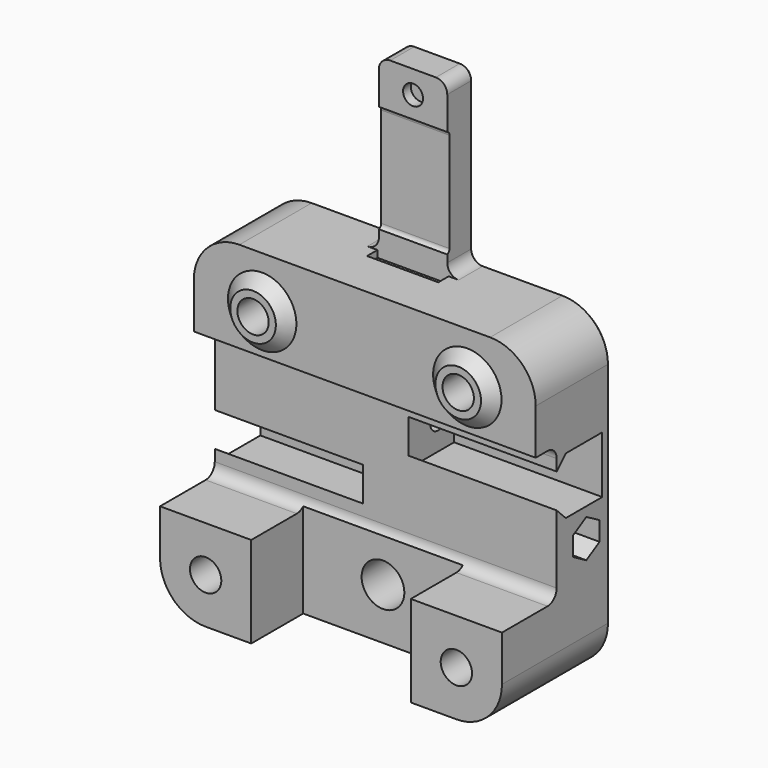
from build123d import *

# Parameters (mm, degrees)
PAD025_DEPTH          = 24
POCKET273_DEPTH       = 30.001
POCKET273_DEPTH_BACK  = 30.001
SKETCH402_W           = 28
SKETCH402_H           = 11.4
POCKET274_DEPTH       = 28.001
SKETCH404_W           = 60
SKETCH404_H           = 7.4
POCKET275_DEPTH       = 28.001
SKETCH405_R           = 2.75
POCKET276_DEPTH       = 20.701
SKETCH406_R           = 5
POCKET277_DEPTH       = 3.001
POCKET278_DEPTH       = 5.001
SKETCH408_R           = 3.75
POCKET279_DEPTH       = 18.701
POCKET280_DEPTH       = 197.021467
SKETCH410_R           = 1.75
POCKET281_DEPTH       = 201.021467
POCKET281_DEPTH_BACK  = 201.021467
POCKET282_DEPTH       = 195.021467
POLARPATTERN003_COUNT = 2
PAD026_DEPTH          = 6
POCKET283_DEPTH       = 6.25
SKETCH414_R           = 1.75
POCKET284_DEPTH       = 19.701
SKETCH415_R           = 3
POCKET285_DEPTH       = 4.001
CHAMFER024_SIZE       = 0.75


with BuildPart() as part:
    # Sketch400 → Pad025 (new body)
    with BuildSketch(Plane.XZ):
        with BuildLine():
            Line((-30, 20), (-30, -20))
            ThreePointArc((-30, -20), (-27.656854, -25.656854), (-22, -28))
            Line((-22, -28), (22, -28))
            ThreePointArc((22, -28), (27.656854, -25.656854), (30, -20))
            Line((30, -20), (30, 20))
            ThreePointArc((30, 20), (27.656854, 25.656854), (22, 28))
            Line((22, 28), (-22, 28))
            ThreePointArc((-22, 28), (-27.656854, 25.656854), (-30, 20))
        make_face()
    extrude(amount=-PAD025_DEPTH)

    # Sketch401 → Pocket273 (cut, two sides)
    with BuildSketch(Plane.YZ) as pocket273_sk:
        with BuildLine():
            Line((-12, 10), (-12, -10))
            ThreePointArc((-12, -10), (-11.414214, -11.414214), (-10, -12))
            Line((-10, -12), (10, -12))
            ThreePointArc((10, -12), (11.414214, -11.414214), (12, -10))
            Line((12, -10), (12, 10))
            ThreePointArc((12, 10), (11.414214, 11.414214), (10, 12))
            Line((10, 12), (-10, 12))
            ThreePointArc((-10, 12), (-11.414214, 11.414214), (-12, 10))
        make_face()
    extrude(amount=-POCKET273_DEPTH, mode=Mode.SUBTRACT)
    extrude(pocket273_sk.sketch, amount=POCKET273_DEPTH_BACK, mode=Mode.SUBTRACT)

    # Sketch402 → Pocket274 (cut, through all)
    with BuildSketch(Plane.XY):
        with Locations((0, 5.7)):
            Rectangle(SKETCH402_W, SKETCH402_H)
    extrude(amount=-POCKET274_DEPTH, mode=Mode.SUBTRACT)

    # Sketch404 → Pocket275 (cut, through all)
    with BuildSketch(Plane.XY):
        with Locations((0, 3.7)):
            Rectangle(SKETCH404_W, SKETCH404_H)
    extrude(amount=POCKET275_DEPTH, mode=Mode.SUBTRACT)

    # Sketch403 → Revolution012 (revolve)
    with BuildSketch(Plane.XY.offset(19)):
        Polygon((18, 7.4), (18, 5.4), (22, 5.4), (24, 7.4), align=None)
    revolution012 = revolve(axis=Axis((18, 7.4, 19), (0, -1, 0)))

    # Mirrored020: Revolution012 across YZ
    add(revolution012.mirror(Plane.YZ))

    # Sketch405 → Pocket276 (cut, through all)
    with BuildSketch(Plane.XZ.offset(-20.7)):
        with Locations((-18, 19)):
            Circle(SKETCH405_R)
        with Locations((18, 19)):
            Circle(SKETCH405_R)
        with Locations((-22, -20)):
            Circle(SKETCH405_R)
        with Locations((22, -20)):
            Circle(SKETCH405_R)
    extrude(amount=POCKET276_DEPTH, mode=Mode.SUBTRACT)

    # Sketch406 → Pocket277 (cut, through all)
    with BuildSketch(Plane.XZ.offset(-21)):
        with Locations((-18, 19)):
            Circle(SKETCH406_R)
        with Locations((18, 19)):
            Circle(SKETCH406_R)
        with Locations((-22, -20)):
            Circle(SKETCH406_R)
        with Locations((22, -20)):
            Circle(SKETCH406_R)
    extrude(amount=-POCKET277_DEPTH, mode=Mode.SUBTRACT)

    # Sketch407 → Pocket278 (cut, through all)
    with BuildSketch(Plane.XZ.offset(-19)):
        with BuildLine():
            ThreePointArc((9, -19), (0, -10), (-9, -19))
            Line((-9, -19), (-9, -25))
            ThreePointArc((-12, -28), (-9.87868, -27.12132), (-9, -25))
            Line((-12, -28), (12, -28))
            ThreePointArc((9, -25), (9.87868, -27.12132), (12, -28))
            Line((9, -25), (9, -19))
        make_face()
    extrude(amount=-POCKET278_DEPTH, mode=Mode.SUBTRACT)

    # Sketch408 → Pocket279 (cut, through all)
    with BuildSketch(Plane.XZ.offset(-18.7)):
        with Locations((0, -19)):
            Circle(SKETCH408_R)
    extrude(amount=POCKET279_DEPTH, mode=Mode.SUBTRACT)

    # Sketch409 → Pocket280 (cut, through all)
    with BuildSketch(Plane.YZ.offset(-4)):
        Polygon((14, 0), (22, 0), (22, -10), (14, -10), (12, -8), (12, -2), align=None)
    pocket280 = extrude(amount=-POCKET280_DEPTH, mode=Mode.SUBTRACT)

    # Sketch410 → Pocket281 (cut, two sides)
    with BuildSketch(Plane.YZ) as pocket281_sk:
        with Locations((18.5, -5)):
            Circle(SKETCH410_R)
    pocket281 = extrude(amount=-POCKET281_DEPTH, mode=Mode.SUBTRACT) + extrude(pocket281_sk.sketch, amount=POCKET281_DEPTH_BACK, mode=Mode.SUBTRACT)

    # Sketch411 → Pocket282 (cut, through all)
    with BuildSketch(Plane.YZ.offset(6)):
        Polygon((21.4, -6.674316), (21.4, -3.325684), (18.5, -1.651368), (15.6, -3.325684), (15.6, -6.674316), (18.5, -8.348632), align=None)
    pocket282 = extrude(amount=POCKET282_DEPTH, mode=Mode.SUBTRACT)

    # PolarPattern003: Pocket282, Pocket280, Pocket281 ×2 about axis
    polarpattern003_axis = Axis((0, 0, 0), (0, 1, 0))
    for i in range(1, POLARPATTERN003_COUNT):
        add(pocket282.rotate(polarpattern003_axis, i * 360 / POLARPATTERN003_COUNT), mode=Mode.SUBTRACT)
        add(pocket280.rotate(polarpattern003_axis, i * 360 / POLARPATTERN003_COUNT), mode=Mode.SUBTRACT)
        add(pocket281.rotate(polarpattern003_axis, i * 360 / POLARPATTERN003_COUNT), mode=Mode.SUBTRACT)

    # Sketch412 → Pad026 (join)
    with BuildSketch(Plane.XZ.offset(-24)):
        with BuildLine():
            ThreePointArc((6, 30), (6.585786, 28.585786), (8, 28))
            Line((-8, 28), (8, 28))
            ThreePointArc((-8, 28), (-6.585786, 28.585786), (-6, 30))
            Line((-6, 56), (-6, 30))
            ThreePointArc((-4, 58), (-5.414214, 57.414214), (-6, 56))
            Line((4, 58), (-4, 58))
            ThreePointArc((6, 56), (5.414214, 57.414214), (4, 58))
            Line((6, 30), (6, 56))
        make_face()
    extrude(amount=PAD026_DEPTH)

    # Sketch413 → Pocket283 (cut, symmetric)
    with BuildSketch(Plane.YZ):
        Polygon((18, 28), (18, 26.8), (16.917157, 26.8), (15.717157, 28), align=None)
        with BuildLine():
            ThreePointArc((18.5, 49.5), (17.75, 50.25), (17, 49.5))
            Line((17, 49.5), (17, 32))
            ThreePointArc((17, 32), (17.75, 31.25), (18.5, 32))
            Line((18.5, 32), (18.5, 49.5))
        make_face()
    extrude(amount=POCKET283_DEPTH, both=True, mode=Mode.SUBTRACT)

    # Sketch414 → Pocket284 (cut, through all)
    with BuildSketch(Plane.XZ.offset(-19.7)):
        with Locations((0, 54)):
            Circle(SKETCH414_R)
    extrude(amount=POCKET284_DEPTH, mode=Mode.SUBTRACT)

    # Sketch415 → Pocket285 (cut, through all)
    with BuildSketch(Plane.XZ.offset(-20)):
        with Locations((0, 54)):
            Circle(SKETCH415_R)
    extrude(amount=-POCKET285_DEPTH, mode=Mode.SUBTRACT)

    # Chamfer024
    chamfer024_edges = [part.edges().sort_by_distance(p)[0] for p in [
        (30, 24, 0),
        (13, 24, 19),
        (17, 24, -20),
        (-27, 24, -20),
        (-23, 24, 19),
    ]]
    chamfer(chamfer024_edges, length=CHAMFER024_SIZE)


solid = part.part
